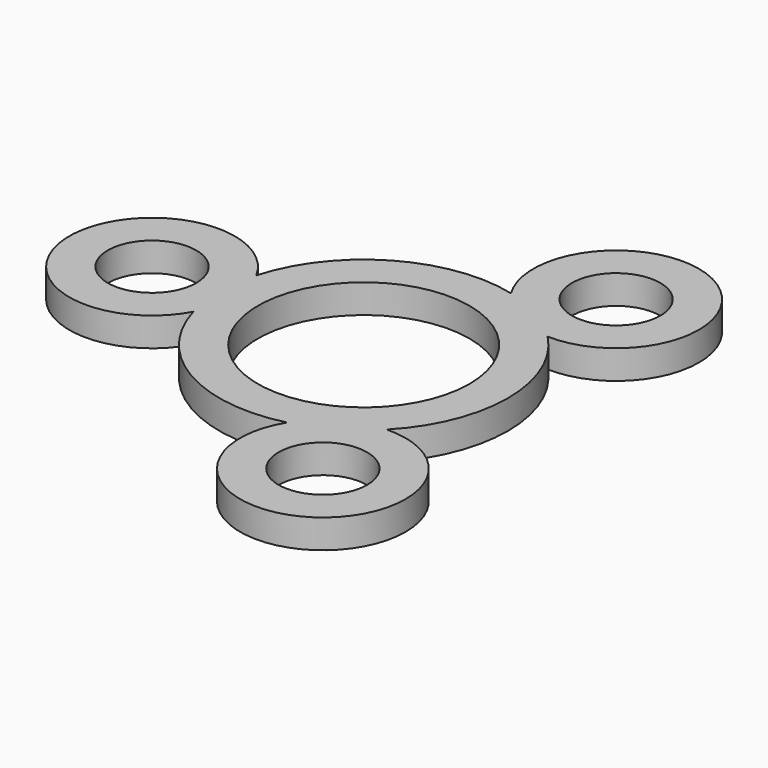
from build123d import *

# Parameters (mm, degrees)
F0_R     = 4.6
F1_DEPTH = 3


with BuildPart() as f1:
    # F0 (on Top) → F1 (new body)
    with BuildSketch(Plane.XY):
        with BuildLine():
            ThreePointArc((-11, 0), (0, -11), (11, 0))
            ThreePointArc((11, 0), (0, 11), (-11, 0))
        make_face()
        with Locations((-22, 0)):
            Circle(F0_R)
        with BuildLine():
            ThreePointArc((-14.432727, 4.086121), (-30.6, 0), (-14.432727, -4.086121))
            ThreePointArc((-14.432727, -4.086121), (-7.5, -12.990381), (3.677679, -14.542169))
            ThreePointArc((3.677679, -14.542169), (15.3, -26.500377), (10.755048, -10.456048))
            ThreePointArc((10.755048, -10.456048), (15, 0), (10.755048, 10.456048))
            ThreePointArc((10.755048, 10.456048), (15.3, 26.500377), (3.677679, 14.542169))
            ThreePointArc((3.677679, 14.542169), (-7.5, 12.990381), (-14.432727, 4.086121))
        make_face()
        with Locations((11, -19.052559)):
            Circle(F0_R, mode=Mode.SUBTRACT)
        with Locations((-22, 0)):
            Circle(F0_R, mode=Mode.SUBTRACT)
        with BuildLine():
            ThreePointArc((-11, 0), (0, 11), (11, 0))
            ThreePointArc((11, 0), (0, -11), (-11, 0))
        make_face(mode=Mode.SUBTRACT)
        with Locations((11, 19.052559)):
            Circle(F0_R, mode=Mode.SUBTRACT)
    extrude(amount=F1_DEPTH)


solid = f1.part
